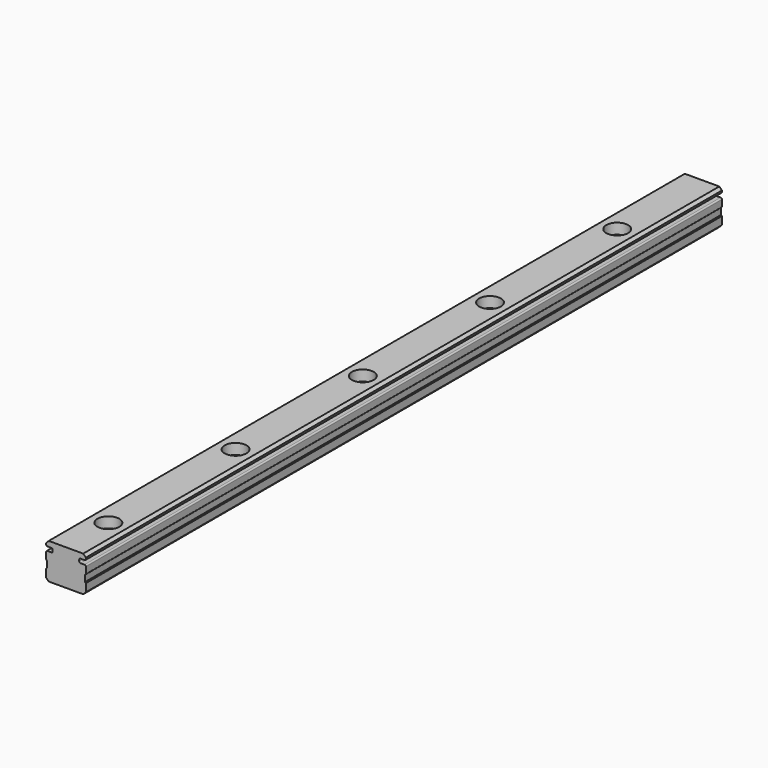
from build123d import *

# Parameters (mm, degrees)
F1_DEPTH       = 300
F3_D           = 4.5
F3_CBORE_D     = 8.25
F3_CBORE_DEPTH = 4


with BuildPart() as f1:
    # F0 (on Front) → F1 (new body)
    with BuildSketch(Plane.XZ):
        with BuildLine():
            Line((-6.5, -6.75), (6.5, -6.75))
            Line((6.5, -6.75), (7.5, -5.75))
            Line((7.5, -5.75), (7.5, -2.75))
            Line((7.5, -2.75), (7.2, -2.75))
            Line((7.2, -2.75), (7.2, -2.45))
            Line((7.2, -2.45), (7.2, -0.05))
            Line((7.2, -0.05), (7.2, 0.25))
            Line((7.2, 0.25), (7.5, 0.25))
            Line((7.5, 0.25), (7.5, 2.75))
            ThreePointArc((7.5, 2.75), (7.3535533906, 3.1035533906), (7, 3.25))
            Line((7, 3.25), (5.5, 3.25))
            ThreePointArc((5.5, 3.25), (5.1464466094, 3.3964466094), (5, 3.75))
            Line((5, 3.75), (5, 4.25))
            ThreePointArc((5, 4.25), (5.1464466094, 4.6035533906), (5.5, 4.75))
            Line((5.5, 4.75), (7, 4.75))
            ThreePointArc((7, 4.75), (7.3535533906, 4.8964466094), (7.5, 5.25))
            Line((7.5, 5.25), (7.5, 5.75))
            Line((7.5, 5.75), (6.5, 6.75))
            Line((6.5, 6.75), (-6.5, 6.75))
            Line((-6.5, 6.75), (-7.5, 5.75))
            Line((-7.5, 5.75), (-7.5, 5.25))
            ThreePointArc((-7.5, 5.25), (-7.3535533906, 4.8964466094), (-7, 4.75))
            Line((-7, 4.75), (-5.5, 4.75))
            ThreePointArc((-5.5, 4.75), (-5.1464466094, 4.6035533906), (-5, 4.25))
            Line((-5, 4.25), (-5, 3.75))
            ThreePointArc((-5, 3.75), (-5.1464466094, 3.3964466094), (-5.5, 3.25))
            Line((-5.5, 3.25), (-7, 3.25))
            ThreePointArc((-7, 3.25), (-7.3535533906, 3.1035533906), (-7.5, 2.75))
            Line((-7.5, 2.75), (-7.5, 0.25))
            Line((-7.5, 0.25), (-7.2, 0.25))
            Line((-7.2, 0.25), (-7.2, -0.05))
            Line((-7.2, -0.05), (-7.2, -2.45))
            Line((-7.2, -2.45), (-7.2, -2.75))
            Line((-7.2, -2.75), (-7.5, -2.75))
            Line((-7.5, -2.75), (-7.5, -5.75))
            Line((-7.5, -5.75), (-6.5, -6.75))
        make_face()
        Polygon((-7.2, 0.25), (-7.5, 0.25), (-7.2, -0.05), align=None)
        Polygon((-7.2, -2.45), (-7.5, -2.75), (-7.2, -2.75), align=None)
        Polygon((7.2, -2.75), (7.5, -2.75), (7.2, -2.45), align=None)
        Polygon((7.2, -0.05), (7.5, 0.25), (7.2, 0.25), align=None)
    extrude(amount=-F1_DEPTH)

    # F3 (through all)
    with Locations(Plane.XY.offset(6.75)):
        with Locations((0, 20), (0, 80), (0, 140), (0, 200), (0, 260)):
            CounterBoreHole(F3_D / 2, F3_CBORE_D / 2, F3_CBORE_DEPTH)


solid = f1.part
